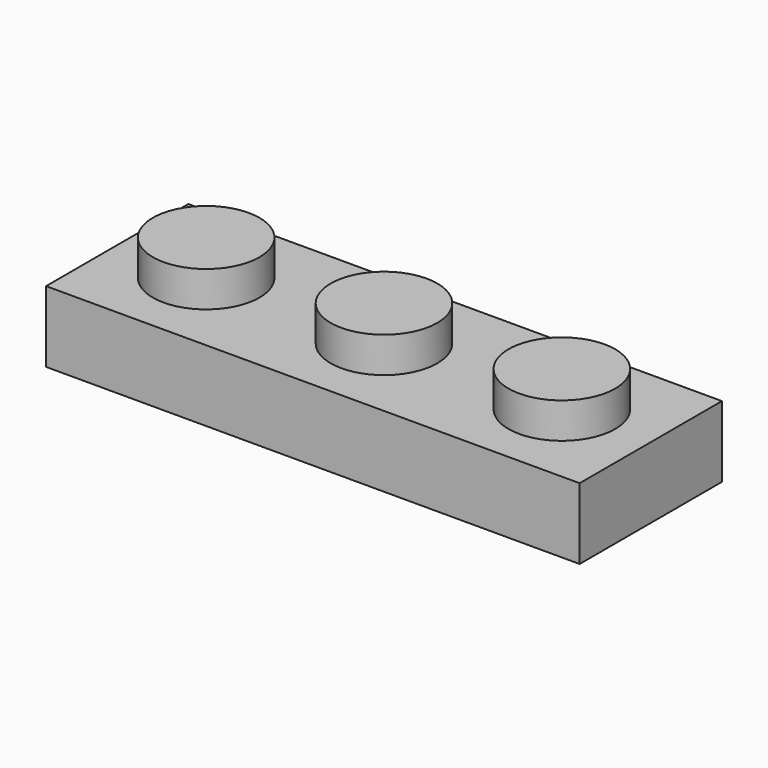
from build123d import *

# Parameters (mm, degrees)
F0_W     = 23.8125
F0_H     = 7.9375
F0_R     = 2.38125
F1_DEPTH = 3.175
F2_DEPTH = 4.7625
F3_T     = -1.5875


with BuildPart() as f1:
    # F0 (on Top) → F1 (new body)
    with BuildSketch(Plane.XY):
        Rectangle(F0_W, F0_H)
        with Locations((-7.9375, 0)):
            Circle(F0_R, mode=Mode.SUBTRACT)
        Circle(F0_R, mode=Mode.SUBTRACT)
        with Locations((7.9375, 0)):
            Circle(F0_R, mode=Mode.SUBTRACT)
    extrude(amount=F1_DEPTH)

    # F0 (on Top) → F2 (join)
    with BuildSketch(Plane.XY):
        with Locations((-7.9375, 0)):
            Circle(F0_R)
        Circle(F0_R)
        with Locations((7.9375, 0)):
            Circle(F0_R)
    extrude(amount=F2_DEPTH)

    # F3
    f3_openings = [f1.faces().sort_by_distance(p)[0] for p in [
        (0, 0, 0),
    ]]
    offset(amount=F3_T, openings=f3_openings, kind=Kind.INTERSECTION)


solid = f1.part
